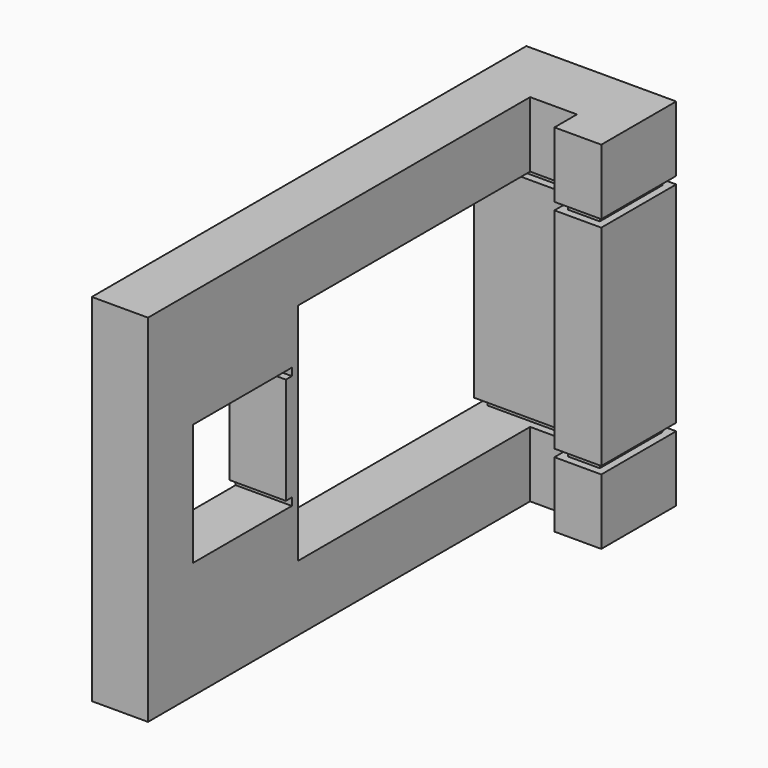
from build123d import *

# Parameters (mm, degrees)
PAD_DEPTH       = 19
POCKET_DEPTH    = 8.001
PAD001_DEPTH    = 12
SKETCH003_W     = 3.5
SKETCH003_H     = 0.4
POCKET001_DEPTH = 0.4
SKETCH004_W     = 5
SKETCH004_H     = 0.4
POCKET002_DEPTH = 0.4
SKETCH005_W     = 1.9
SKETCH005_H     = 0.4
POCKET003_DEPTH = 0.4
SKETCH006_W     = 5.1
SKETCH006_H     = 0.4
POCKET004_DEPTH = 0.4
SKETCH007_W     = 1.7
SKETCH007_H     = 0.4
POCKET005_DEPTH = 0.4
SKETCH008_W     = 7.2
SKETCH008_H     = 0.4
POCKET006_DEPTH = 0.4
SKETCH009_W     = 3
SKETCH009_H     = 0.8
PAD002_DEPTH    = 7
SKETCH010_W     = 3
SKETCH010_H     = 0.4
POCKET007_DEPTH = 0.4


with BuildPart() as part:
    # Sketch → Pad (new body)
    with BuildSketch(Plane.XY):
        Polygon((-25.168114, 28.93024), (-17.168114, 28.93024), (-17.168114, 23.93024), (-19.668114, 23.93024), (-19.668114, 25.43024), (-22.168114, 25.43024), (-22.168114, -0.06976), (-25.168114, -0.06976), align=None)
    extrude(amount=PAD_DEPTH)

    # Sketch001 → Pocket (cut, through all)
    with BuildSketch(Plane(origin=(-25.168114, 0, 0), x_dir=(0, -1, 0), z_dir=(-1, 0, 0))):
        Polygon((-28.93024, 15.5), (-9.93024, 15.5), (-9.93024, 12.75), (-2.93024, 12.75), (-2.93024, 6.25), (-9.93024, 6.25), (-9.93024, 3.5), (-28.93024, 3.5), align=None)
    extrude(amount=-POCKET_DEPTH, mode=Mode.SUBTRACT)

    # Sketch002 → Pad001 (new body)
    with BuildSketch(Plane.XY.offset(3.5)):
        Polygon((-25.168114, 28.93024), (-17.168114, 28.93024), (-17.168114, 23.93024), (-19.668114, 23.93024), (-19.668114, 25.43024), (-25.168114, 25.43024), align=None)
        Polygon((-24.368114, 26.23024), (-24.368114, 28.13024), (-17.968114, 28.13024), (-17.968114, 24.73024), (-18.868114, 24.73024), (-18.868114, 26.23024), align=None, mode=Mode.SUBTRACT)
    extrude(amount=PAD001_DEPTH)

    # Sketch003 → Pocket001 (cut)
    with BuildSketch(Plane(origin=(-25.168114, 0, 0), x_dir=(0, -1, 0), z_dir=(-1, 0, 0))):
        with Locations((-27.18024, 15.3)):
            Rectangle(SKETCH003_W, SKETCH003_H)
        with Locations((-27.18024, 3.7)):
            Rectangle(SKETCH003_W, SKETCH003_H)
    extrude(amount=-POCKET001_DEPTH, mode=Mode.SUBTRACT)

    # Sketch004 → Pocket002 (cut)
    with BuildSketch(Plane.YZ.offset(-17.168114)):
        with Locations((26.43024, 15.3)):
            Rectangle(SKETCH004_W, SKETCH004_H)
        with Locations((26.43024, 3.7)):
            Rectangle(SKETCH004_W, SKETCH004_H)
    extrude(amount=-POCKET002_DEPTH, mode=Mode.SUBTRACT)

    # Sketch005 → Pocket003 (cut)
    with BuildSketch(Plane(origin=(-19.668114, 0, 0), x_dir=(0, -1, 0), z_dir=(-1, 0, 0))):
        with Locations((-24.88024, 15.3)):
            Rectangle(SKETCH005_W, SKETCH005_H)
        with Locations((-24.88024, 3.7)):
            Rectangle(SKETCH005_W, SKETCH005_H)
    extrude(amount=-POCKET003_DEPTH, mode=Mode.SUBTRACT)

    # Sketch006 → Pocket004 (cut)
    with BuildSketch(Plane.XZ.offset(-25.43024)):
        with Locations((-22.218114, 15.3)):
            Rectangle(SKETCH006_W, SKETCH006_H)
        with Locations((-22.218114, 3.7)):
            Rectangle(SKETCH006_W, SKETCH006_H)
    extrude(amount=-POCKET004_DEPTH, mode=Mode.SUBTRACT)

    # Sketch007 → Pocket005 (cut)
    with BuildSketch(Plane.XZ.offset(-23.93024)):
        with Locations((-18.418114, 15.3)):
            Rectangle(SKETCH007_W, SKETCH007_H)
        with Locations((-18.418114, 3.7)):
            Rectangle(SKETCH007_W, SKETCH007_H)
    extrude(amount=-POCKET005_DEPTH, mode=Mode.SUBTRACT)

    # Sketch008 → Pocket006 (cut)
    with BuildSketch(Plane(origin=(0, 28.93024, 0), x_dir=(-1, 0, 0), z_dir=(0, 1, 0))):
        with Locations((21.168114, 15.3)):
            Rectangle(SKETCH008_W, SKETCH008_H)
        with Locations((21.168114, 3.7)):
            Rectangle(SKETCH008_W, SKETCH008_H)
    extrude(amount=-POCKET006_DEPTH, mode=Mode.SUBTRACT)

    # Sketch009 → Pad002 (new body)
    with BuildSketch(Plane.XY.offset(6.25)):
        with Locations((-23.668114, 9.53024)):
            Rectangle(SKETCH009_W, SKETCH009_H)
    extrude(amount=PAD002_DEPTH)

    # Sketch010 → Pocket007 (cut)
    with BuildSketch(Plane.XZ.offset(-9.13024)):
        with Locations((-23.668114, 12.55)):
            Rectangle(SKETCH010_W, SKETCH010_H)
        with Locations((-23.668114, 6.45)):
            Rectangle(SKETCH010_W, SKETCH010_H)
    extrude(amount=-POCKET007_DEPTH, mode=Mode.SUBTRACT)


solid = part.part
